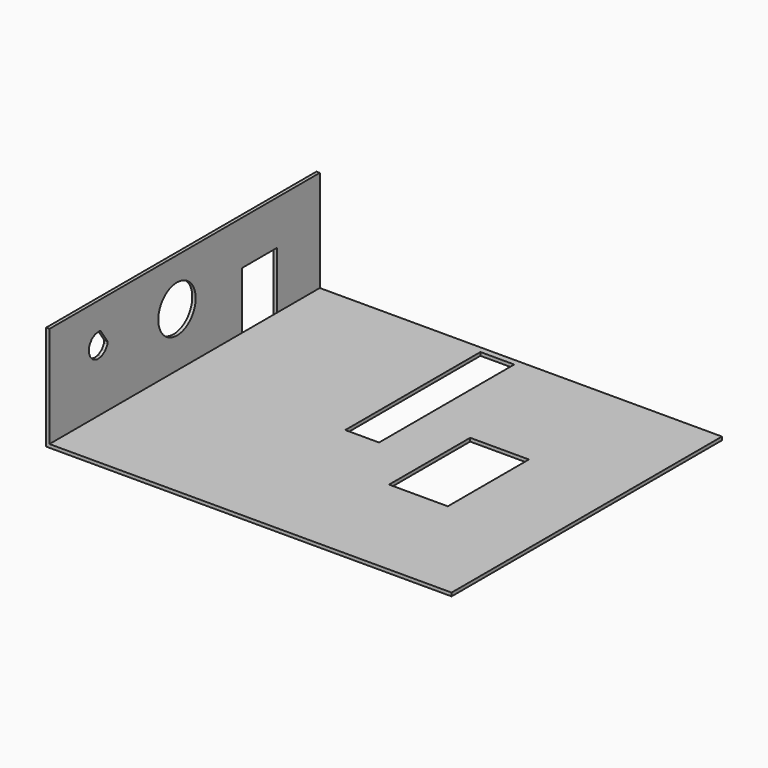
from build123d import *

# Parameters (mm, degrees)
F0_W      = 304.8
F0_H      = 254
F1_DEPTH  = 2.54
F2_W      = 2.54
F2_H      = 254
F3_DEPTH  = 76.2
F4_W      = 32.960277
F4_H      = 45.472592
F5_DEPTH  = 2.54
F6_R      = 17.569994
F7_DEPTH  = 25.4
F9_DEPTH  = 25.4
F10_W     = 25.4
F10_H     = 127
F10_W_2   = 44.169486
F10_H_2   = 76.2
F11_DEPTH = 25.4


with BuildPart() as f1:
    # F0 (on Top) → F1 (new body)
    with BuildSketch(Plane.XY):
        Rectangle(F0_W, F0_H)
    extrude(amount=F1_DEPTH)

    # F2 (on face) → F3 (join)
    with BuildSketch(Plane.XY.offset(2.54)):
        with Locations((-151.13, 0)):
            Rectangle(F2_W, F2_H)
    extrude(amount=F3_DEPTH)

    # F4 (on face) → F5 (cut)
    with BuildSketch(Plane(origin=(-152.4, 0, 0), x_dir=(0, -1, 0), z_dir=(-1, 0, 0))):
        with Locations((-70.221598, 22.736296)):
            Rectangle(F4_W, F4_H)
    extrude(amount=-F5_DEPTH, mode=Mode.SUBTRACT)

    # F6 (on face) → F7 (cut)
    with BuildSketch(Plane(origin=(-152.4, 0, 0), x_dir=(0, -1, 0), z_dir=(-1, 0, 0))):
        with Locations((7.203376, 43.230873)):
            Circle(F6_R)
    extrude(amount=-F7_DEPTH, mode=Mode.SUBTRACT)

    # F8 (on face) → F9 (cut)
    with BuildSketch(Plane.YZ.offset(-149.86)):
        Polygon((-74.678751, 42.898838), (-72.551889, 46.301815), (-72.340945, 48.215244), (-78.74044, 57.646077), (-78.632851, 57.719084), (-80.081942, 58.222244), (-84.068573, 57.76337), (-87.461306, 55.620204), (-89.588167, 52.217227), (-90.027907, 48.22844), (-88.693429, 44.443871), (-85.849043, 41.613101), (-82.058114, 40.296798), (-78.071483, 40.755672), align=None)
    extrude(amount=-F9_DEPTH, mode=Mode.SUBTRACT)

    # F10 (on face) → F11 (cut)
    with BuildSketch(Plane.XY.offset(2.54)):
        with Locations((-12.7, 58.855257)):
            Rectangle(F10_W, F10_H)
        with Locations((60.076818, -4.644743)):
            Rectangle(F10_W_2, F10_H_2)
    extrude(amount=-F11_DEPTH, mode=Mode.SUBTRACT)


solid = f1.part
